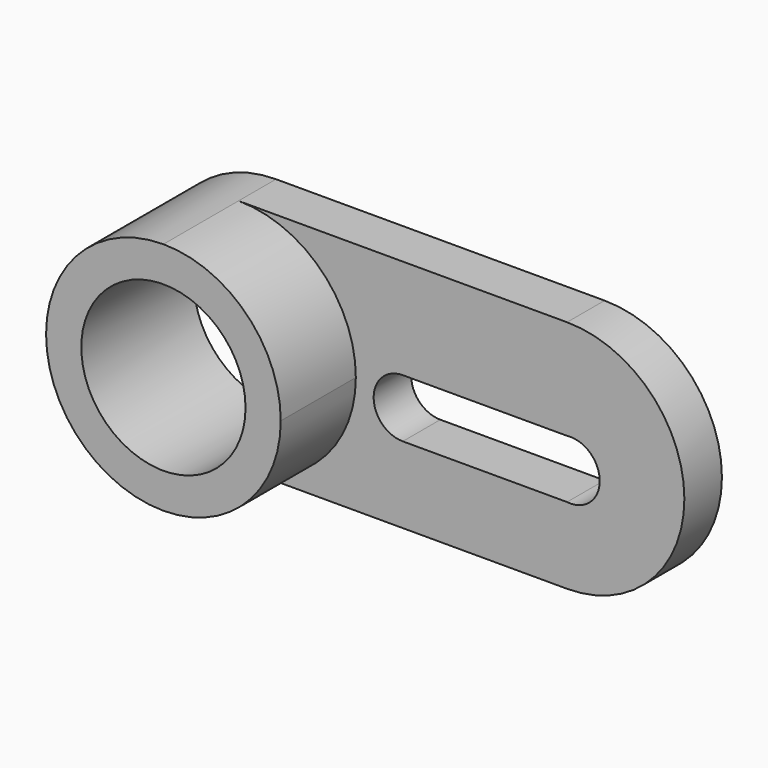
from build123d import *

# Parameters (mm, degrees)
F0_R     = 35
F1_DEPTH = 60
F2_DEPTH = 20


with BuildPart() as f1:
    # F0 (on Front) → F1 (new body)
    with BuildSketch(Plane.XZ):
        with BuildLine():
            ThreePointArc((-117.755093, -50), (-82.399754, -35.355339), (-67.755093, 0))
            ThreePointArc((-67.755093, 0), (-82.399754, 35.355339), (-117.755093, 50))
            ThreePointArc((-117.755093, 50), (-167.755093, 0), (-117.755093, -50))
        make_face()
        with Locations((-117.755093, 0)):
            Circle(F0_R, mode=Mode.SUBTRACT)
    extrude(amount=F1_DEPTH)

    # F0 (on Front) → F2 (join)
    with BuildSketch(Plane.XZ):
        with BuildLine():
            ThreePointArc((-117.755093, 50), (-82.399754, 35.355339), (-67.755093, 0))
            ThreePointArc((-67.755093, 0), (-82.399754, -35.355339), (-117.755093, -50))
            Line((-117.755093, -50), (22.244907, -50))
            ThreePointArc((22.244907, -50), (72.244907, 0), (22.244907, 50))
            Line((22.244907, 50), (-117.755093, 50))
        make_face()
        with BuildLine():
            ThreePointArc((22.244907, 7.385553), (36.174364, -5.032444), (22.244907, -17.450441))
            Line((22.244907, -17.450441), (-47.755093, -17.450441))
            ThreePointArc((-47.755093, -17.450441), (-60.17309, -5.032444), (-47.755093, 7.385553))
            Line((-47.755093, 7.385553), (22.244907, 7.385553))
        make_face(mode=Mode.SUBTRACT)
    extrude(amount=F2_DEPTH)


solid = f1.part
